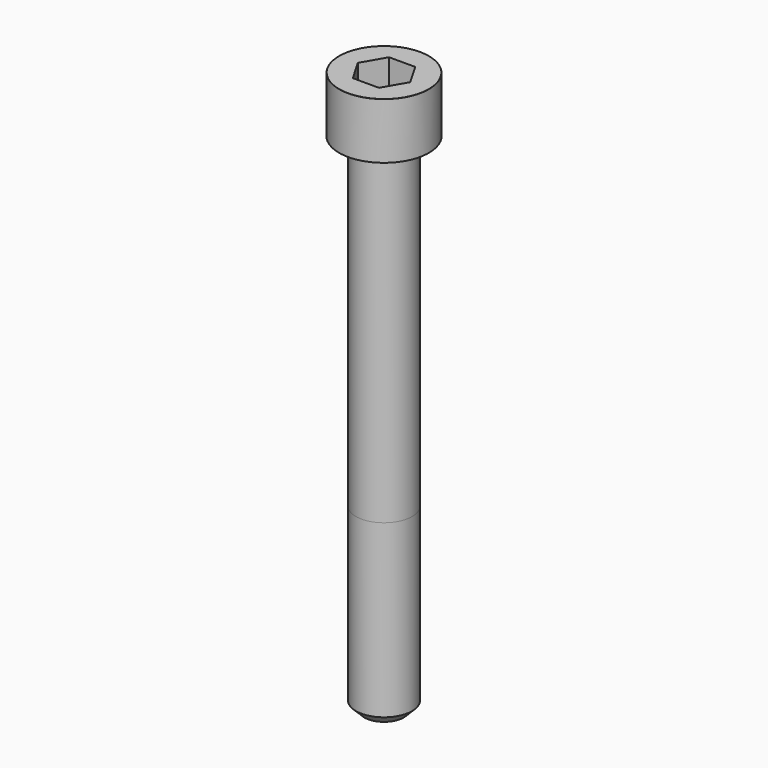
from build123d import *

# Parameters (mm, degrees)
POCKET_DEPTH = 8.07


with BuildPart() as part:
    # Sketch → Revolve (revolve)
    with BuildSketch(Plane.YZ):
        with BuildLine():
            Line((4.999, 0), (8, 0))
            Line((8, 0), (8, 9.97229))
            ThreePointArc((8, 9.97229), (7.991884, 9.991884), (7.97229, 10))
            Line((7.97229, 10), (0, 10))
            Line((0, -90), (0, 10))
            Line((3.5, -90), (0, -90))
            Line((5, -88.5), (3.5, -90))
            Line((5, -58), (5, -88.5))
            Line((4.999, 0), (5, -58))
        make_face()
    revolve(axis=Axis((0, 0, 0), (0, 0, 1)))

    # Sketch001 → Pocket (cut)
    with BuildSketch(Plane.XY.offset(10)):
        Polygon((4.659217, 0), (2.329608, 4.035), (-2.329608, 4.035), (-4.659217, 0), (-2.329608, -4.035), (2.329608, -4.035), align=None)
    extrude(amount=-POCKET_DEPTH, mode=Mode.SUBTRACT)


solid = part.part
